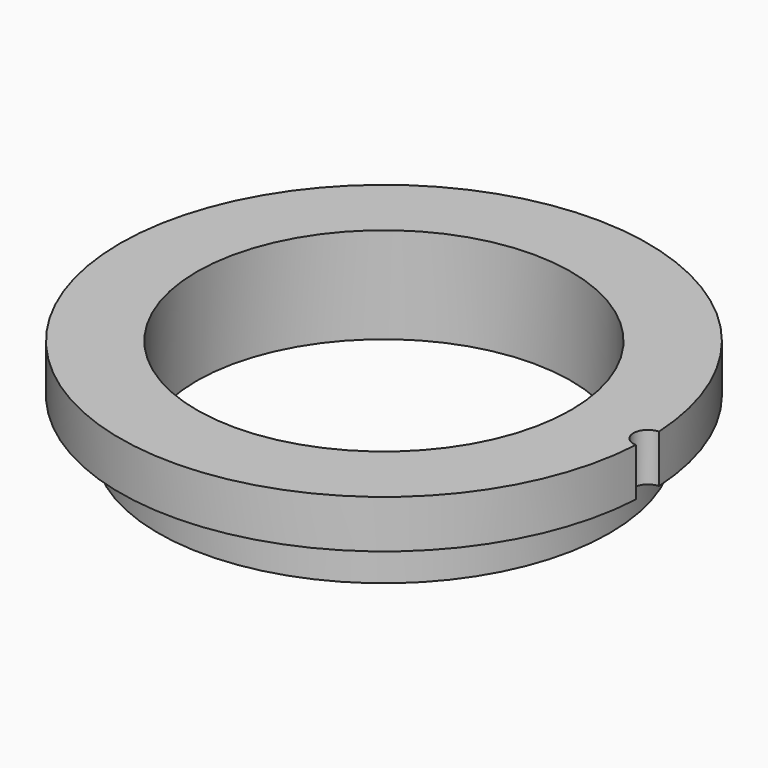
from build123d import *

# Parameters (mm, degrees)
SKETCH_R          = 27.5
SKETCH_R_2        = 19.5
PAD_DEPTH         = 10
SKETCH001_R       = 1.5
POCKET_DEPTH      = 10
SKETCH002_R       = 1.5
POCKET001_DEPTH   = 1.5
COPYSKETCH003_R   = 27.5
COPYSKETCH003_R_2 = 23.5
POCKET002_DEPTH   = 5


with BuildPart() as part:
    # Sketch → Pad (new body)
    with BuildSketch(Plane.XY):
        Circle(SKETCH_R)
        Circle(SKETCH_R_2, mode=Mode.SUBTRACT)
    extrude(amount=PAD_DEPTH)

    # Sketch001 → Pocket (cut)
    with BuildSketch(Plane(origin=(27.5, 0, 0), x_dir=(1, 0, 0), z_dir=(0, 0, 1))):
        Circle(SKETCH001_R)
    extrude(amount=POCKET_DEPTH, mode=Mode.SUBTRACT)

    # Sketch002 → Pocket001 (cut)
    with BuildSketch(Plane.YZ.offset(27.5)):
        Circle(SKETCH002_R)
    extrude(amount=-POCKET001_DEPTH, mode=Mode.SUBTRACT)

    # CopySketch003 → Pocket002 (cut)
    with BuildSketch(Plane.XY):
        Circle(COPYSKETCH003_R)
        Circle(COPYSKETCH003_R_2, mode=Mode.SUBTRACT)
    extrude(amount=POCKET002_DEPTH, mode=Mode.SUBTRACT)


solid = part.part
